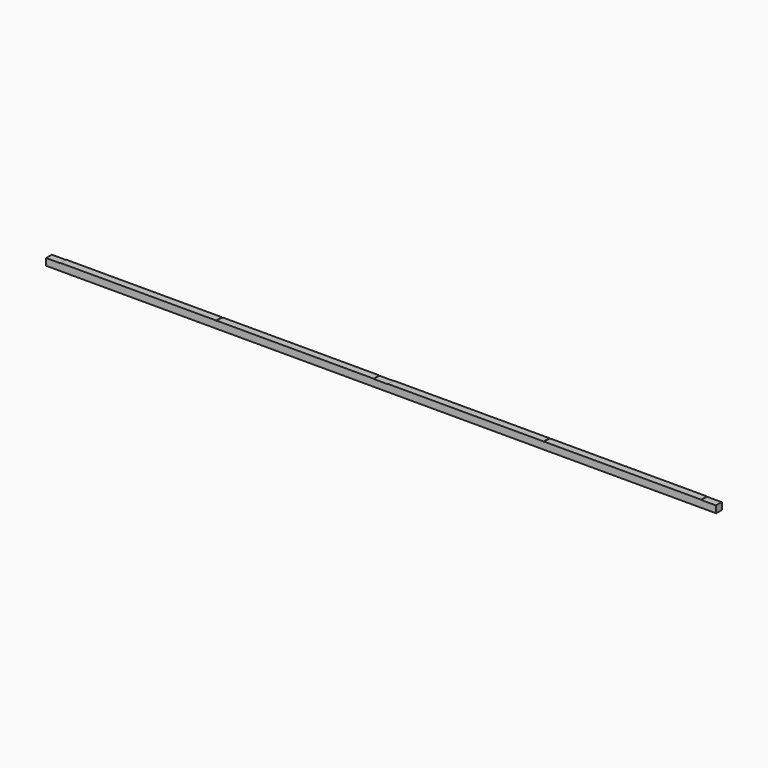
from build123d import *

# Parameters (mm, degrees)
F0_W      = 4680
F0_H      = 50
F1_DEPTH  = 50
F2_W      = 100
F2_H      = 50
F3_DEPTH  = 2
F5_W      = 10
F5_H      = 55.152472
F6_DEPTH  = 2
F7_W      = 100
F7_H      = 50.594781
F8_DEPTH  = 2
F9_W      = 10
F9_H      = 53.388629
F10_DEPTH = 2
F11_W     = 104.231835
F11_H     = 51.408537
F12_DEPTH = 2


with BuildPart() as f1:
    # F0 (on Top) → F1 (new body)
    with BuildSketch(Plane.XY):
        with Locations((2340, 25)):
            Rectangle(F0_W, F0_H)
    extrude(amount=F1_DEPTH)

    # F2 (on face) → F3 (cut)
    with BuildSketch(Plane.XY.offset(50)):
        with Locations((50, 25)):
            Rectangle(F2_W, F2_H)
    extrude(amount=-F3_DEPTH, mode=Mode.SUBTRACT)

    # F5 (on face) → F6 (cut)
    with BuildSketch(Plane.XY.offset(50)):
        with Locations((1192.839508, 27.576236)):
            Rectangle(F5_W, F5_H)
    extrude(amount=-F6_DEPTH, mode=Mode.SUBTRACT)

    # F7 (on face) → F8 (cut)
    with BuildSketch(Plane.XY.offset(50)):
        with Locations((2337.991524, 25.29739)):
            Rectangle(F7_W, F7_H)
    extrude(amount=-F8_DEPTH, mode=Mode.SUBTRACT)

    # F9 (on face) → F10 (cut)
    with BuildSketch(Plane.XY.offset(50)):
        with Locations((3479.988937, 26.694314)):
            Rectangle(F9_W, F9_H)
    extrude(amount=-F10_DEPTH, mode=Mode.SUBTRACT)

    # F11 (on face) → F12 (cut)
    with BuildSketch(Plane.XY.offset(50)):
        with Locations((4627.364159, 25.704268)):
            Rectangle(F11_W, F11_H)
    extrude(amount=-F12_DEPTH, mode=Mode.SUBTRACT)


solid = f1.part
